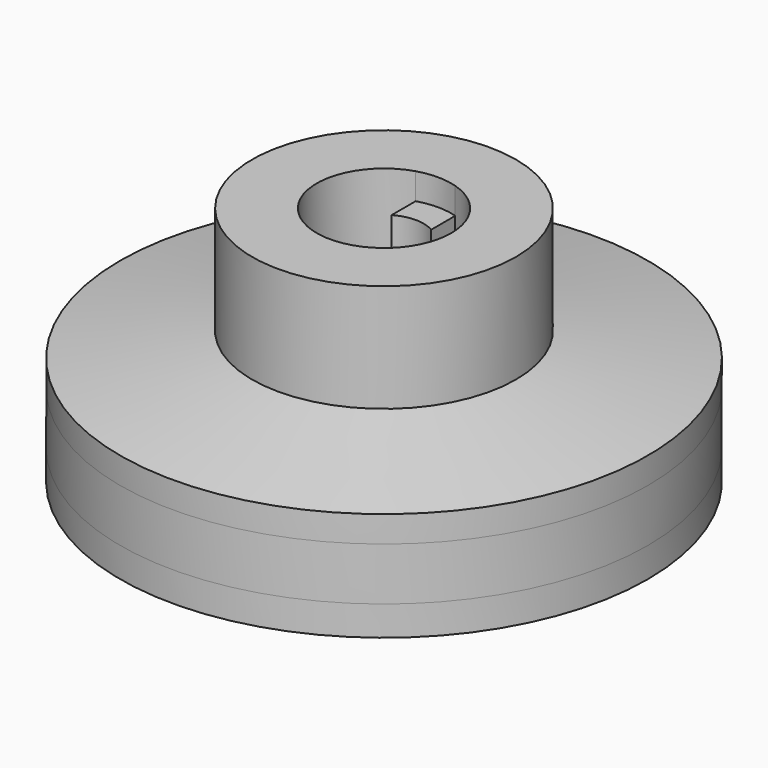
from build123d import *

# Parameters (mm, degrees)
F0_R      = 5
F1_DEPTH  = 6
F2_DEPTH  = 5
F3_DEPTH  = 3.1
F6_R      = 10
F6_R_2    = 3.5
F7_DEPTH  = 2
F8_R      = 10
F8_R_2    = 5.25
F9_DEPTH  = 1.125
F11_DEPTH = 2.125


with BuildPart() as f1:
    # F0 (on Top) → F1 (new body)
    with BuildSketch(Plane.XY):
        Circle(F0_R)
        with BuildLine():
            ThreePointArc((0.75, 2.4372115214), (2.0512191497, 1.5149257408), (2.55, 0))
            ThreePointArc((2.55, 0), (2.0512191497, -1.5149257408), (0.75, -2.4372115214))
            ThreePointArc((0.75, -2.4372115214), (0, -2.55), (-0.75, -2.4372115214))
            ThreePointArc((-0.75, -2.4372115214), (-2.55, 0), (-0.75, 2.4372115214))
            ThreePointArc((-0.75, 2.4372115214), (0, 2.55), (0.75, 2.4372115214))
        make_face(mode=Mode.SUBTRACT)
    extrude(amount=F1_DEPTH)

    # F0 (on Top) → F2 (join)
    with BuildSketch(Plane.XY):
        with BuildLine():
            Line((0.75, 1.2990381057), (0.75, 2.4372115214))
            ThreePointArc((0.75, 2.4372115214), (0, 2.55), (-0.75, 2.4372115214))
            Line((-0.75, 2.4372115214), (-0.75, 1.2990381057))
            ThreePointArc((-0.75, 1.2990381057), (0, 1.5), (0.75, 1.2990381057))
        make_face()
        with BuildLine():
            ThreePointArc((-0.75, -2.4372115214), (0, -2.55), (0.75, -2.4372115214))
            Line((0.75, -2.4372115214), (0.75, -1.2990381057))
            ThreePointArc((0.75, -1.2990381057), (0, -1.5), (-0.75, -1.2990381057))
            Line((-0.75, -1.2990381057), (-0.75, -2.4372115214))
        make_face()
    extrude(amount=F2_DEPTH)

    # F0 (on Top) → F3 (join)
    with BuildSketch(Plane.XY):
        with BuildLine():
            Line((-0.75, 1.2990381057), (-0.75, 2.4372115214))
            ThreePointArc((-0.75, 2.4372115214), (-2.55, 0), (-0.75, -2.4372115214))
            Line((-0.75, -2.4372115214), (-0.75, -1.2990381057))
            ThreePointArc((-0.75, -1.2990381057), (-1.5, 0), (-0.75, 1.2990381057))
        make_face()
        with BuildLine():
            ThreePointArc((0.75, -2.4372115214), (2.0512191497, -1.5149257408), (2.55, 0))
            ThreePointArc((2.55, 0), (2.0512191497, 1.5149257408), (0.75, 2.4372115214))
            Line((0.75, 2.4372115214), (0.75, 1.2990381057))
            ThreePointArc((0.75, 1.2990381057), (1.2990381057, 0.75), (1.5, 0))
            ThreePointArc((1.5, 0), (1.2990381057, -0.75), (0.75, -1.2990381057))
            Line((0.75, -1.2990381057), (0.75, -2.4372115214))
        make_face()
    extrude(amount=F3_DEPTH)

    # F4 (on Front) → F5 (revolve)
    with BuildSketch(Plane.XZ):
        Polygon((-10, 0), (-4, 0), (-4, 2), (-4.5, 2), (-10, 1), align=None)
    revolve(axis=Axis((0, 0, 1.2425027974), (0, 0, 1)))

    # F6 (on face) → F7 (join)
    with BuildSketch(Plane(origin=(0, 0, 0), x_dir=(1, 0, 0), z_dir=(0, 0, -1))):
        Circle(F6_R)
        Circle(F6_R_2, mode=Mode.SUBTRACT)
    extrude(amount=F7_DEPTH)

    # F8 (on face) → F9 (join)
    with BuildSketch(Plane(origin=(0, 0, -2), x_dir=(1, 0, 0), z_dir=(0, 0, -1))):
        Circle(F8_R)
        Circle(F8_R_2, mode=Mode.SUBTRACT)
    extrude(amount=F9_DEPTH)

    # F10 (on face) → F11 (cut)
    with BuildSketch(Plane(origin=(0, 0, -3.125), x_dir=(1, 0, 0), z_dir=(0, 0, -1))):
        with BuildLine():
            ThreePointArc((-7, -2), (-5.5857864376, -1.4142135624), (-5, 0))
            ThreePointArc((-5, 0), (-5.5857864376, 1.4142135624), (-7, 2))
            ThreePointArc((-7, 2), (-9, 0), (-7, -2))
        make_face()
        with BuildLine():
            ThreePointArc((7, -2), (8.4142135624, -1.4142135624), (9, 0))
            ThreePointArc((9, 0), (8.4142135624, 1.4142135624), (7, 2))
            ThreePointArc((7, 2), (5, 0), (7, -2))
        make_face()
    extrude(amount=-F11_DEPTH, mode=Mode.SUBTRACT)


solid = f1.part
